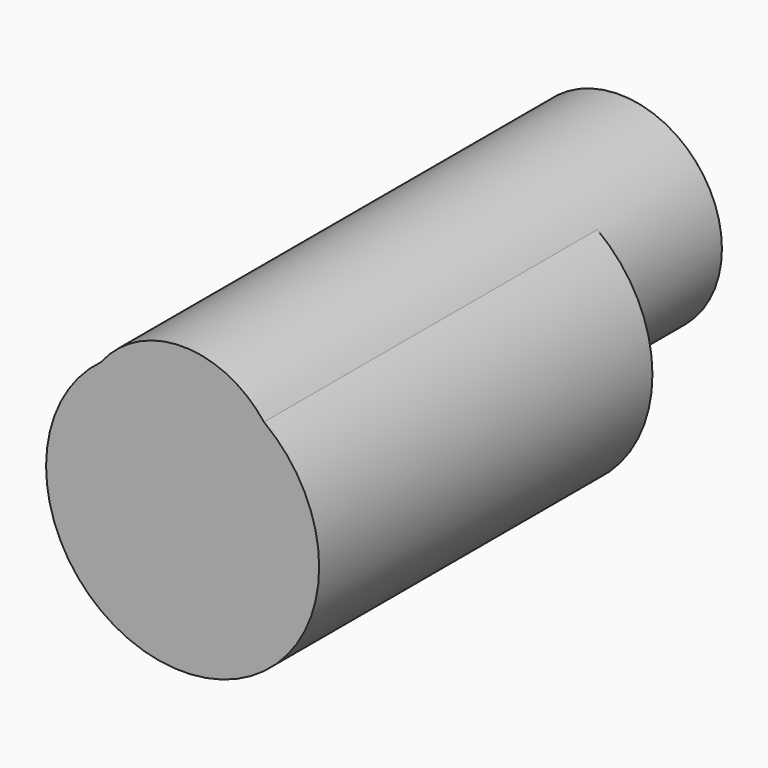
from build123d import *

# Parameters (mm, degrees)
F0_R     = 41.620277158
F1_DEPTH = 127
F2_R     = 31.2617985802
F3_DEPTH = 166.4217710495


with BuildPart() as f1:
    # F0 (on Front) → F1 (new body)
    with BuildSketch(Plane.XZ):
        Circle(F0_R)
    extrude(amount=F1_DEPTH)

    # F2 (on face) → F3 (join)
    with BuildSketch(Plane.XZ.offset(127)):
        with Locations((0, 14.3875591457)):
            Circle(F2_R)
    extrude(amount=-F3_DEPTH)


solid = f1.part
